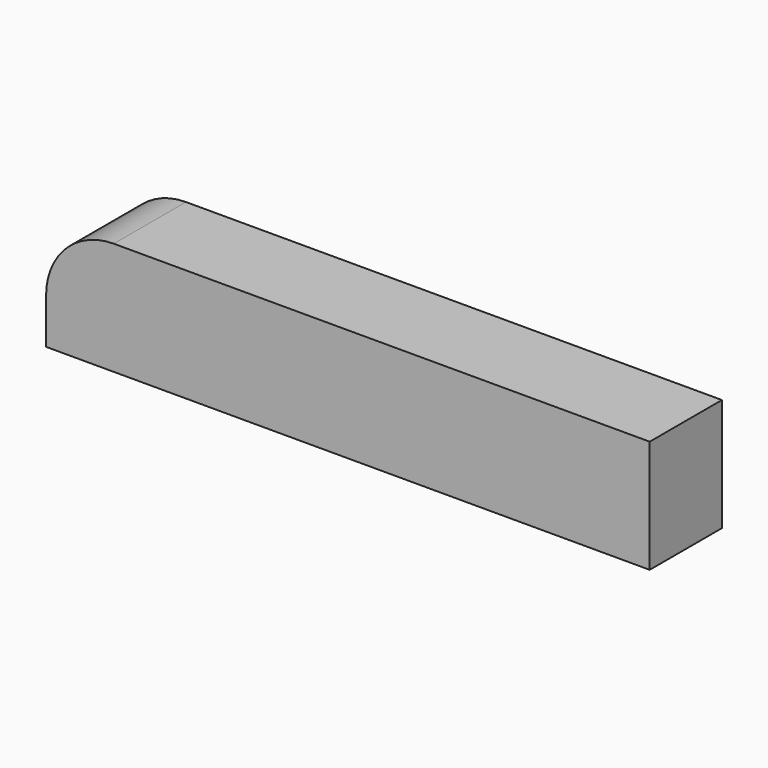
from build123d import *

# Parameters (mm, degrees)
F1_DEPTH = 25.4
F2_DEPTH = 25.4
F3_DEPTH = 25.4


with BuildPart() as f1:
    # F0 (on Front) → F1 (new body)
    with BuildSketch(Plane.XZ):
        with BuildLine():
            Line((-68.262484, 0), (0, 0))
            Line((0, 0), (0, 31.75))
            Line((0, 31.75), (-150.812484, 31.75))
            ThreePointArc((-150.812484, 31.75), (-164.282868, 26.170384), (-169.862484, 12.7))
            Line((-169.862484, 12.7), (-169.862484, 0))
            Line((-169.862484, 0), (-87.312484, 0))
            Line((-87.312484, 0), (-68.262484, 0))
        make_face()
    extrude(amount=F1_DEPTH)


with BuildPart() as f2:
    # F0 (on Front) → F2 (new body)
    with BuildSketch(Plane.XZ):
        with BuildLine():
            Line((-68.262484, 0), (0, 0))
            Line((0, 0), (0, 31.75))
            Line((0, 31.75), (-150.812484, 31.75))
            ThreePointArc((-150.812484, 31.75), (-164.282868, 26.170384), (-169.862484, 12.7))
            Line((-169.862484, 12.7), (-169.862484, 0))
            Line((-169.862484, 0), (-87.312484, 0))
            Line((-87.312484, 0), (-68.262484, 0))
        make_face()
    extrude(amount=F2_DEPTH)


with BuildPart() as f3:
    # F0 (on Front) → F3 (new body)
    with BuildSketch(Plane.XZ):
        with BuildLine():
            Line((-68.262484, 0), (0, 0))
            Line((0, 0), (0, 31.75))
            Line((0, 31.75), (-150.812484, 31.75))
            ThreePointArc((-150.812484, 31.75), (-164.282868, 26.170384), (-169.862484, 12.7))
            Line((-169.862484, 12.7), (-169.862484, 0))
            Line((-169.862484, 0), (-87.312484, 0))
            Line((-87.312484, 0), (-68.262484, 0))
        make_face()
    extrude(amount=F3_DEPTH)


solid = Compound([f1.part, f2.part, f3.part])
